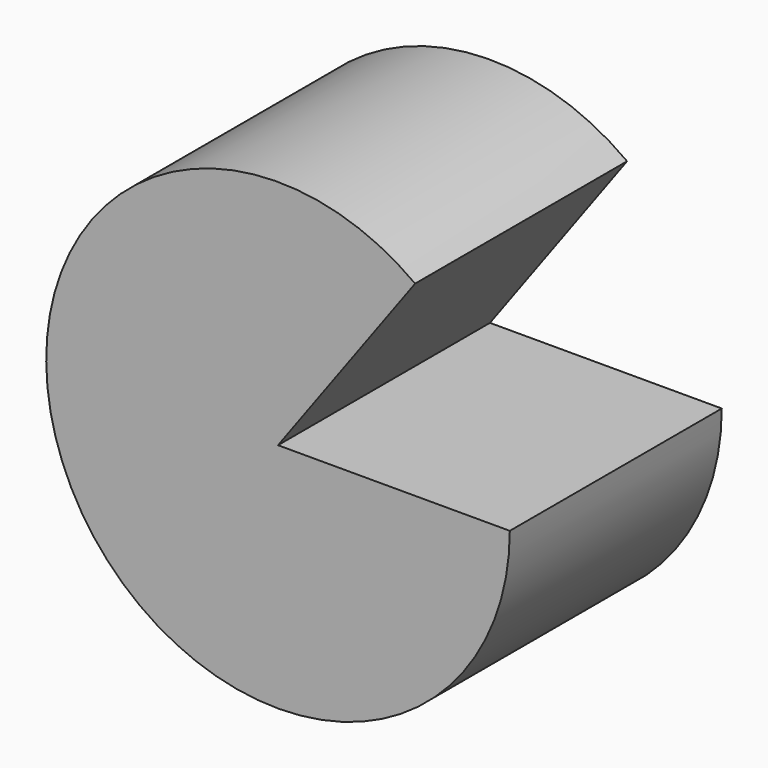
from build123d import *

# Parameters (mm, degrees)
F0_R     = 66.665176
F1_DEPTH = 38.1
F3_DEPTH = 76.201


with BuildPart() as f1:
    # F0 (on Front) → F1 (new body, symmetric)
    with BuildSketch(Plane.XZ):
        Circle(F0_R)
    extrude(amount=F1_DEPTH, both=True)

    # F2 (on face) → F3 (cut, through all)
    with BuildSketch(Plane.XZ.offset(38.1)):
        with BuildLine():
            Line((39.437289, 53.748916), (0, 0))
            Line((0, 0), (66.665176, 0))
            ThreePointArc((66.665176, 0), (59.469906, 30.126001), (39.437289, 53.748916))
        make_face()
    extrude(amount=-F3_DEPTH, mode=Mode.SUBTRACT)


solid = f1.part
